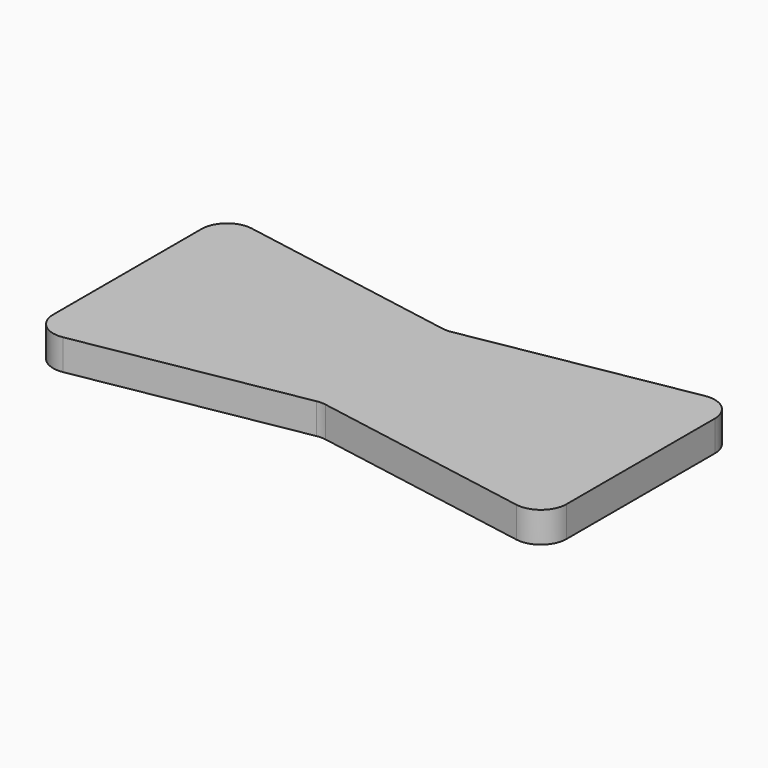
from build123d import *

# Parameters (mm, degrees)
F1_DEPTH = 6


with BuildPart() as f1:
    # F0 (on Top) → F1 (new body)
    with BuildSketch(Plane.XY):
        with BuildLine():
            Line((44.309619, 23.276254), (0.868241, 15.616367))
            ThreePointArc((0.868241, 15.616367), (0, 15.540405), (-0.868241, 15.616367))
            Line((-0.868241, 15.616367), (-44.309619, 23.276254))
            ThreePointArc((-44.309619, 23.276254), (-48.391798, 22.182437), (-50.17786, 18.352215))
            Line((-50.17786, 18.352215), (-50.17786, -17.888943))
            ThreePointArc((-50.17786, -17.888943), (-48.391798, -21.719165), (-44.309619, -22.812981))
            Line((-44.309619, -22.812981), (-0.868241, -15.153094))
            ThreePointArc((-0.868241, -15.153094), (0, -15.077133), (0.868241, -15.153094))
            Line((0.868241, -15.153094), (44.309619, -22.812981))
            ThreePointArc((44.309619, -22.812981), (48.391798, -21.719165), (50.17786, -17.888943))
            Line((50.17786, -17.888943), (50.17786, 18.352215))
            ThreePointArc((50.17786, 18.352215), (48.391798, 22.182437), (44.309619, 23.276254))
        make_face()
    extrude(amount=F1_DEPTH)


solid = f1.part
